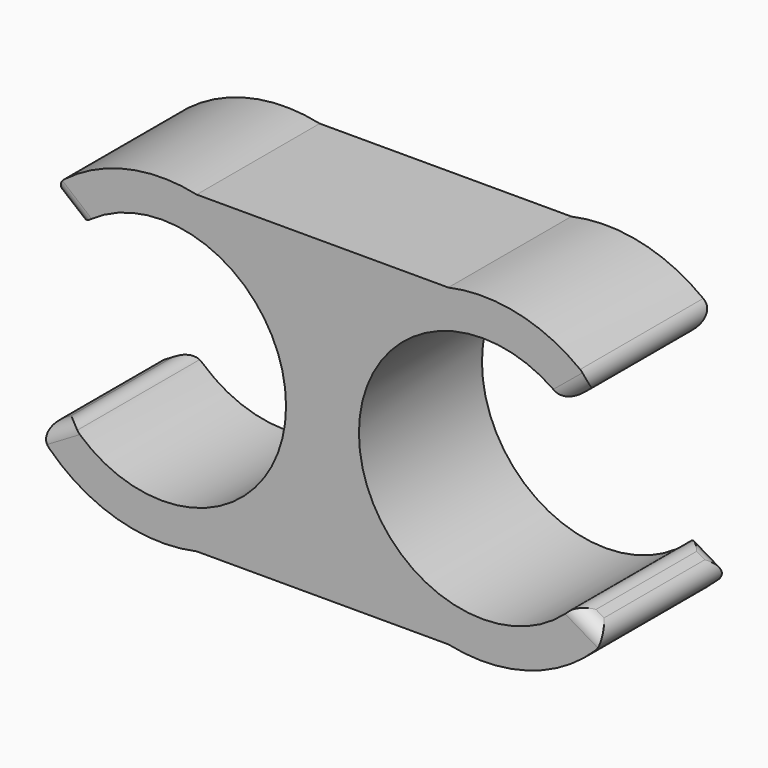
from build123d import *

# Parameters (mm, degrees)
PAD_DEPTH   = 11
FILLET_R    = 1
FILLET001_R = 1


with BuildPart() as part:
    # Sketch → Pad (new body)
    with BuildSketch(Plane.XZ):
        with BuildLine():
            Line((0, 0), (0, 18.468932))
            Line((0, 18.468932), (-9, 18.468932))
            ThreePointArc((-9, 18.468932), (-14.55271, 18.309956), (-19.383095, 15.566739))
            Line((-17.314404, 13.868706), (-19.383095, 15.566739))
            ThreePointArc((-18.083851, 1.368706), (-2.623704, 6.690727), (-17.314404, 13.868706))
            Line((-18.083851, 1.368706), (-20.396363, 0))
            ThreePointArc((-20.396363, 0), (-15.265575, -3.616554), (-9, -4))
            Line((-9, -4), (0, -4))
            Line((0, 0), (0, -4))
        make_face()
    extrude(amount=PAD_DEPTH)

    # Fillet
    fillet_edges = [part.edges().sort_by_distance(p)[0] for p in [
        (-18.083851, -5.5, 1.368706),
        (-20.396363, -5.5, 0),
        (-19.240107, 0, 0.684353),
        (-19.240107, -11, 0.684353),
    ]]
    fillet(fillet_edges, radius=FILLET_R)

    # Fillet001
    fillet001_edges = [part.edges().sort_by_distance(p)[0] for p in [
        (-17.314404, -5.5, 13.868706),
        (-19.383095, -5.5, 15.566739),
        (-18.348749, 0, 14.717723),
        (-18.348749, -11, 14.717723),
    ]]
    fillet(fillet001_edges, radius=FILLET001_R)

    # Mirrored: part across YZ


with BuildPart() as part_1:
    add(part.part)
    add(part.part.mirror(Plane.YZ))


solid = part_1.part
